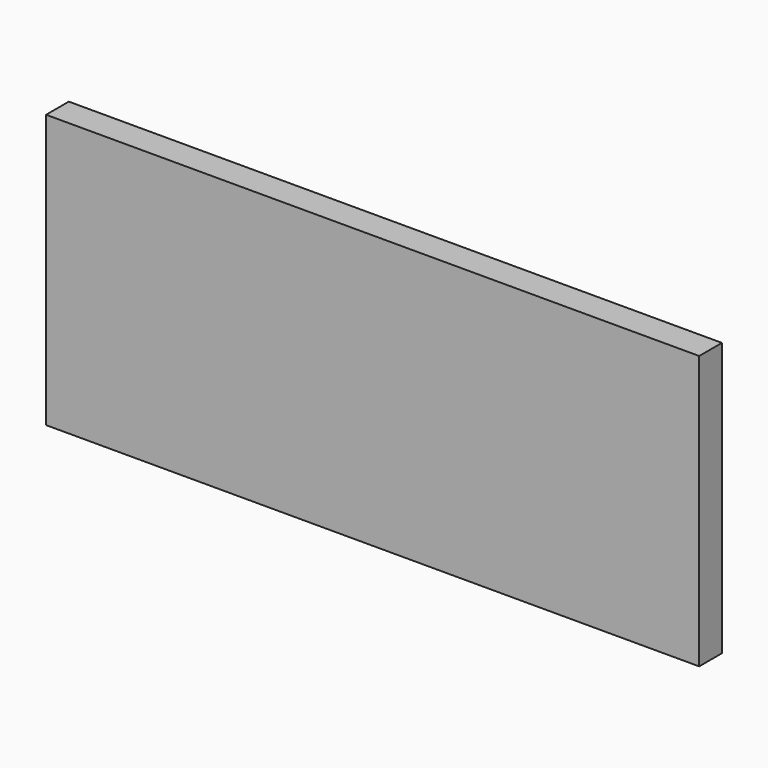
from build123d import *

# Parameters (mm, degrees)
F0_W     = 1195
F0_H     = 500
F1_DEPTH = 52
F2_W     = 1183
F2_H     = 488
F3_DEPTH = 48


with BuildPart() as f1:
    # F0 (on Front) → F1 (new body)
    with BuildSketch(Plane.XZ):
        Rectangle(F0_W, F0_H)
    extrude(amount=F1_DEPTH)

    # F2 (on face) → F3 (cut)
    with BuildSketch(Plane(origin=(0, 0, 0), x_dir=(-1, 0, 0), z_dir=(0, 1, 0))):
        Rectangle(F2_W, F2_H)
    extrude(amount=-F3_DEPTH, mode=Mode.SUBTRACT)


solid = f1.part
